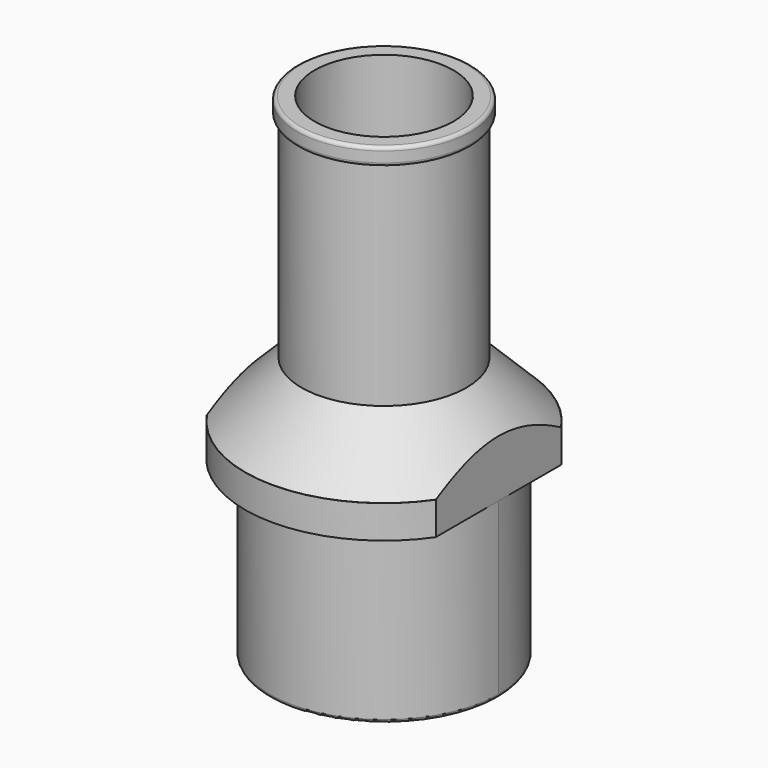
from build123d import *

# Parameters (mm, degrees)
SKETCH061_R          = 6.6
SKETCH061_R_2        = 5.125
PAD009_DEPTH         = 10
SKETCH062_R          = 8
SKETCH062_R_2        = 4
PAD010_DEPTH         = 1.9
SKETCH063_R          = 4.75
SKETCH063_R_2        = 4
PAD011_DEPTH         = 15.5
SKETCH064_R          = 5
SKETCH064_R_2        = 4
PAD012_DEPTH         = 1
CHAMFER_SIZE         = 3.24
FILLET002_R          = 0.2
SKETCH065_W          = 11.246889
SKETCH065_H          = 18.579264
SKETCH065_W_2        = 10.317355
SKETCH065_H_2        = 19.434534
POCKET012_DEPTH      = 100
POCKET012_DEPTH_BACK = 100


with BuildPart() as part:
    # Sketch061 → Pad009 (new body)
    with BuildSketch(Plane.XY):
        Circle(SKETCH061_R)
        Circle(SKETCH061_R_2, mode=Mode.SUBTRACT)
    extrude(amount=PAD009_DEPTH)

    # Sketch062 (on Face4 of Pad009) → Pad010 (join)
    with BuildSketch(Plane.XY.offset(10)):
        Circle(SKETCH062_R)
        Circle(SKETCH062_R_2, mode=Mode.SUBTRACT)
    extrude(amount=PAD010_DEPTH)

    # Sketch063 (on Face7 of Pad010) → Pad011 (join)
    with BuildSketch(Plane.XY.offset(11.9)):
        Circle(SKETCH063_R)
        Circle(SKETCH063_R_2, mode=Mode.SUBTRACT)
    extrude(amount=PAD011_DEPTH)

    # Sketch064 (on Face11 of Pad011) → Pad012 (join)
    with BuildSketch(Plane.XY.offset(27.4)):
        Circle(SKETCH064_R)
        Circle(SKETCH064_R_2, mode=Mode.SUBTRACT)
    extrude(amount=PAD012_DEPTH)

    # Chamfer
    chamfer_edges = [part.edges().sort_by_distance(p)[0] for p in [
        (-4.75, 0, 11.9),
    ]]
    chamfer(chamfer_edges, length=CHAMFER_SIZE)

    # Fillet002
    fillet002_edges = [part.edges().sort_by_distance(p)[0] for p in [
        (-5, 0, 28.4),
        (-5, 0, 27.4),
        (-6.6, 0, 0),
    ]]
    fillet(fillet002_edges, radius=FILLET002_R)

    # Sketch065 → Pocket012 (cut, two sides)
    with BuildSketch(Plane.XZ) as pocket012_sk:
        with Locations((-12.223444, 9.289632)):
            Rectangle(SKETCH065_W, SKETCH065_H)
        with Locations((11.758678, 9.717267)):
            Rectangle(SKETCH065_W_2, SKETCH065_H_2)
    extrude(amount=-POCKET012_DEPTH, mode=Mode.SUBTRACT)
    extrude(pocket012_sk.sketch, amount=POCKET012_DEPTH_BACK, mode=Mode.SUBTRACT)


solid = part.part
